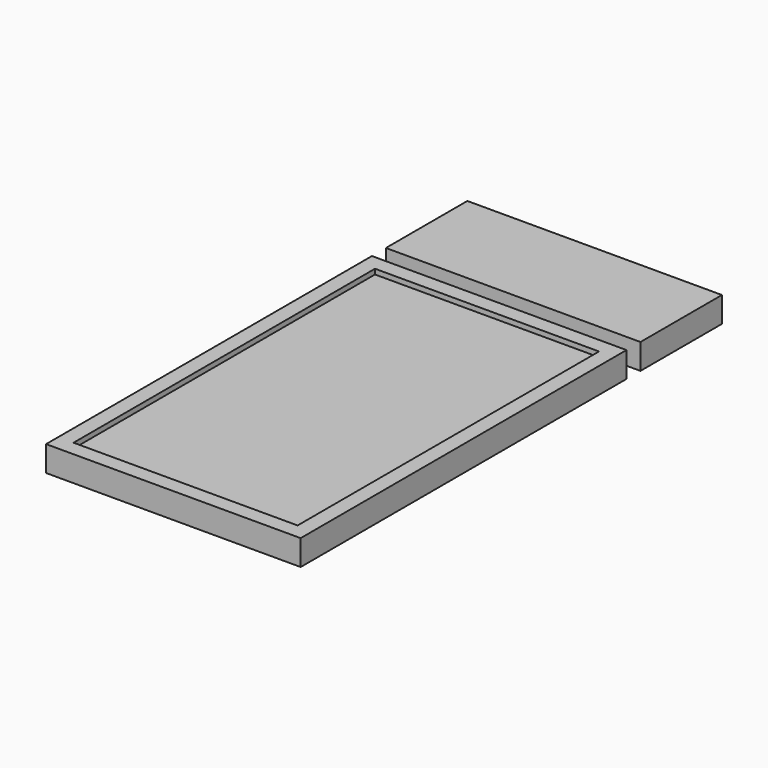
from build123d import *

# Parameters (mm, degrees)
F0_W     = 50
F0_H     = 80
F2_DEPTH = 5
F1_W     = 50
F1_H     = 20
F3_DEPTH = 5
F4_W     = 44
F4_H     = 74
F5_DEPTH = 1


with BuildPart() as f2:
    # F0 (on Top) → F2 (new body)
    with BuildSketch(Plane.XY):
        with Locations((25, -40)):
            Rectangle(F0_W, F0_H)
    extrude(amount=F2_DEPTH)

    # F4 (on face) → F5 (cut)
    with BuildSketch(Plane.XY.offset(5)):
        with Locations((25, -40)):
            Rectangle(F4_W, F4_H)
    extrude(amount=-F5_DEPTH, mode=Mode.SUBTRACT)


with BuildPart() as f3:
    # F1 (on Top) → F3 (new body)
    with BuildSketch(Plane.XY):
        with Locations((25, 13.426736)):
            Rectangle(F1_W, F1_H)
    extrude(amount=F3_DEPTH)


solid = Compound([f2.part, f3.part])
